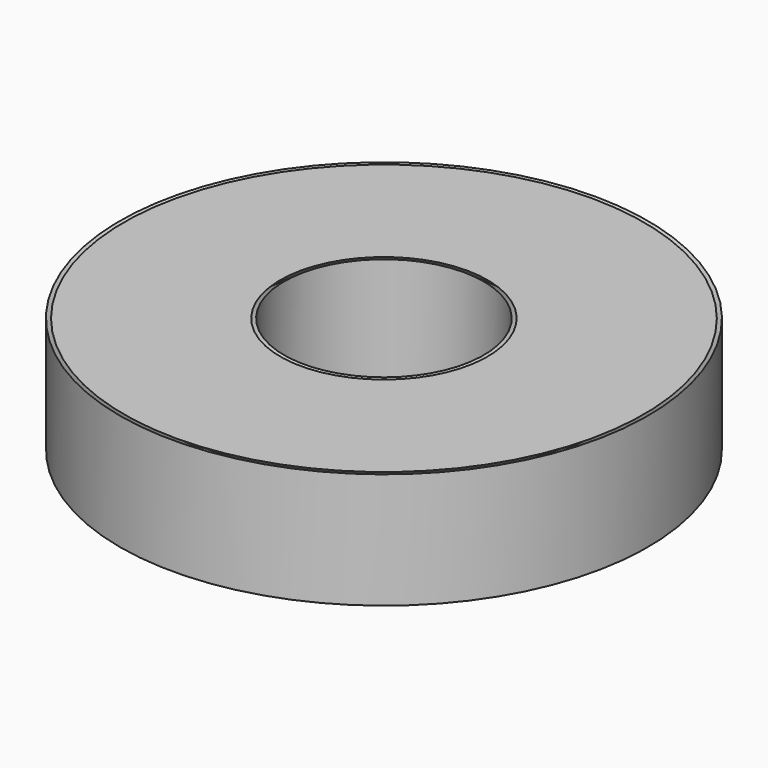
from build123d import *


with BuildPart() as f1:
    # F0 (on Right) → F1 (revolve)
    with BuildSketch(Plane.YZ):
        Polygon((24.854356, 5.255939), (17.01499, 0), (42.671099, 0), (34.119062, 5.255939), (34.119062, 13.45164), (42.671099, 18.974831), (17.01499, 18.974831), (24.854356, 13.45164), align=None)
        Polygon((43.324787, 0), (43.324787, 18.974831), (34.77275, 13.45164), (34.77275, 5.255939), align=None)
        Polygon((24.223676, 13.45164), (16.384309, 18.974831), (16.384309, 0), (24.223676, 5.255939), align=None)
    revolve(axis=Axis((0, 0, 5.286295), (0, 0, 1)))


solid = f1.part
